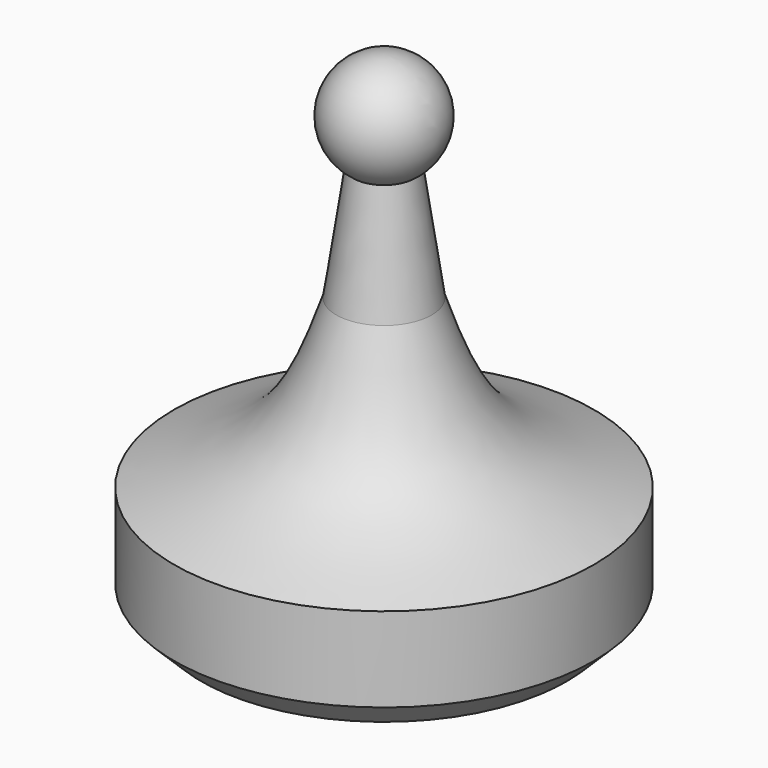
from build123d import *

# Parameters (mm, degrees)
F2_SIZE = 1.5875


with BuildPart() as f1:
    # F0 (on Front) → F1 (revolve)
    with BuildSketch(Plane.XZ):
        with BuildLine():
            Line((2.7815741487, 5.0497502089), (1.7916392798, 11.7384665387))
            ThreePointArc((1.7916392798, 11.7384665387), (3.0333902938, 15.2972994827), (0, 17.5346597195))
            Line((0, 17.5346597195), (0, -11.0403402805))
            Line((0, -11.0403402805), (12.2315715998, -11.2042445689))
            Line((12.2315715998, -11.2042445689), (12.2315715998, -4.6837464906))
            add(Edge.make_bspline(
                [(2.7815741487, 5.0497502089), (3.5948778018, 2.6491730872), (5.2143925307, -2.1310464429), (9.8993510845, -3.8353344204), (12.2315715998, -4.6837464906)],
                knots=[0, 0, 0, 0, 0.502189723, 1, 1, 1, 1], degree=3))
        make_face()
    revolve(axis=Axis((0, 0, 3.2471597195), (0, 0, 1)))

    # F2
    f2_edges = [f1.edges().sort_by_distance(p)[0] for p in [
        (-12.231572, 0, -11.204245),
    ]]
    chamfer(f2_edges, length=F2_SIZE)


solid = f1.part
